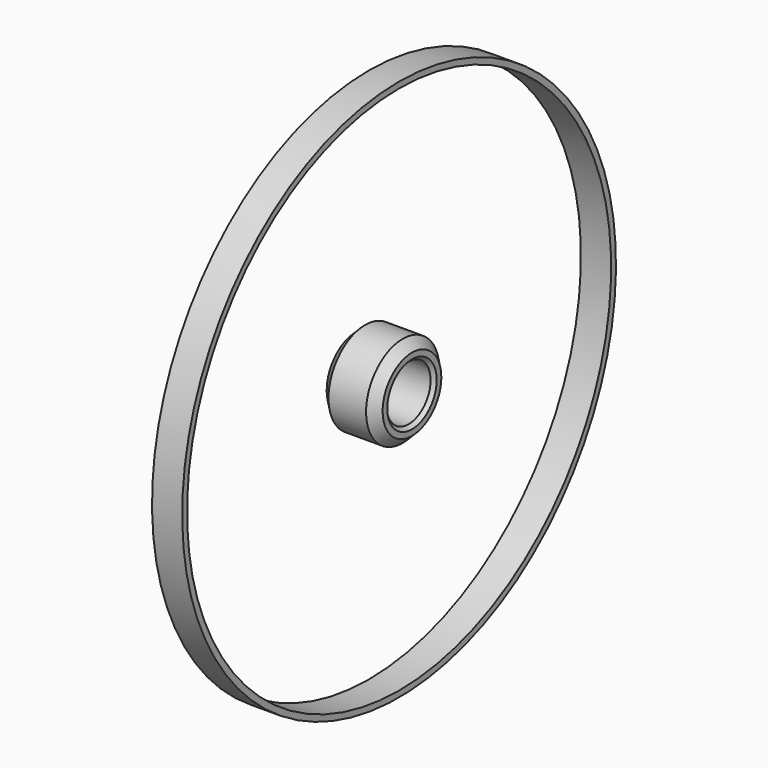
from build123d import *


with BuildPart() as f1:
    # F0 (on Front) → F1 (revolve)
    with BuildSketch(Plane.XZ):
        Polygon((-6.35, 7.1), (0, 7.1), (6.35, 7.1), (7.225, 7.975), (7.225, 9.475), (4.85, 11.85), (0, 11.85), (-4.85, 11.85), (-7.225, 9.475), (-7.225, 7.975), align=None)
        Polygon((-3.9, 68.453036), (0, 68.453036), (3.9, 68.453036), (3.9, 70.020216), (0, 70.020216), (-3.9, 70.020216), align=None)
    revolve(axis=Axis((18.602807, 0, 0), (1, 0, 0)))


solid = f1.part
